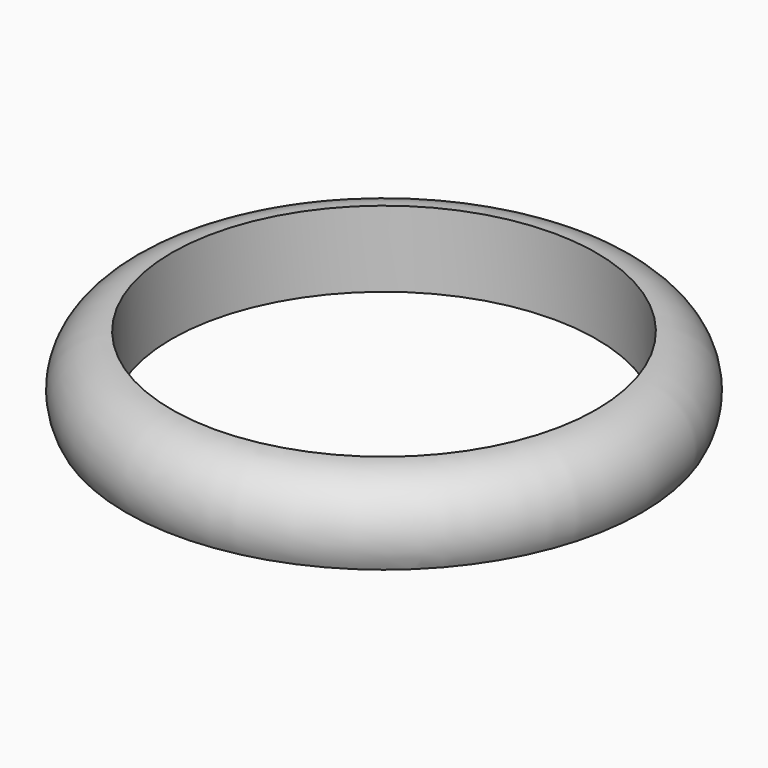
from build123d import *

# Parameters (mm, degrees)
F2_R     = 14
F3_DEPTH = 25


with BuildPart() as f1:
    # F0 (on Front) → F1 (revolve)
    with BuildSketch(Plane.XZ):
        with BuildLine():
            Line((0, 5), (0, 0))
            Line((0, 0), (17, 0))
            ThreePointArc((17, 0), (16.915476, 3.349286), (14, 5))
            Line((14, 5), (0, 5))
        make_face()
    revolve(axis=Axis((0, 0, 2.5), (0, 0, -1)))

    # F2 (on face) → F3 (cut)
    with BuildSketch(Plane.XY.offset(5)):
        Circle(F2_R)
    extrude(amount=-F3_DEPTH, mode=Mode.SUBTRACT)


solid = f1.part
